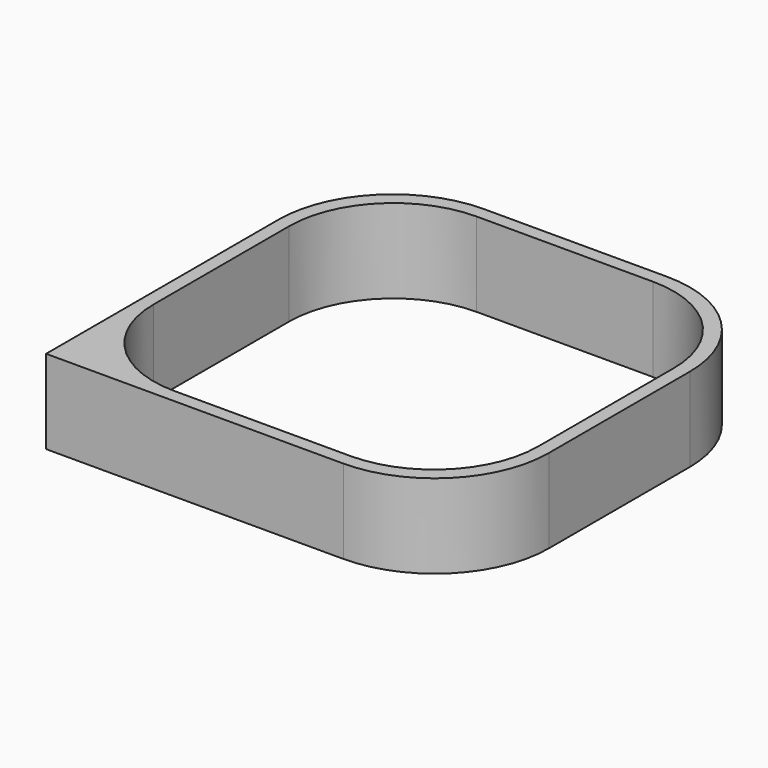
from build123d import *

# Parameters (mm, degrees)
BOX001_W     = 114.5
BOX001_H     = 112.5
BOX001_DEPTH = 32
BOX_W        = 122.5
BOX_H        = 120.5
BOX_DEPTH    = 25
FILLET_R     = 31
FILLET001_R  = 31
FILLET002_R  = 31
FILLET003_R  = 31
FILLET004_R  = 34
FILLET005_R  = 34
FILLET006_R  = 34


with BuildPart() as cubo001:
    # Box001 → Box001 (new body)
    with BuildSketch(Plane(origin=(4, 4, 0), x_dir=(1, 0, 0), z_dir=(0, 0, 1))):
        with Locations((57.25, 56.25)):
            Rectangle(BOX001_W, BOX001_H)
    extrude(amount=BOX001_DEPTH)


with BuildPart() as fillet006:
    # Box → Box (new body)
    with BuildSketch(Plane.XY):
        with Locations((61.25, 60.25)):
            Rectangle(BOX_W, BOX_H)
    extrude(amount=BOX_DEPTH)

    # Cut: cut Cubo001
    add(cubo001.part, mode=Mode.SUBTRACT)

    # Fillet
    fillet_edges = [fillet006.edges().sort_by_distance(p)[0] for p in [
        (4, 116.5, 12.5),
    ]]
    fillet(fillet_edges, radius=FILLET_R)

    # Fillet001
    fillet001_edges = [fillet006.edges().sort_by_distance(p)[0] for p in [
        (118.5, 116.5, 12.5),
    ]]
    fillet(fillet001_edges, radius=FILLET001_R)

    # Fillet002
    fillet002_edges = [fillet006.edges().sort_by_distance(p)[0] for p in [
        (4, 4, 12.5),
    ]]
    fillet(fillet002_edges, radius=FILLET002_R)

    # Fillet003
    fillet003_edges = [fillet006.edges().sort_by_distance(p)[0] for p in [
        (118.5, 4, 12.5),
    ]]
    fillet(fillet003_edges, radius=FILLET003_R)

    # Fillet004
    fillet004_edges = [fillet006.edges().sort_by_distance(p)[0] for p in [
        (0, 120.5, 12.5),
    ]]
    fillet(fillet004_edges, radius=FILLET004_R)

    # Fillet005
    fillet005_edges = [fillet006.edges().sort_by_distance(p)[0] for p in [
        (122.5, 120.5, 12.5),
    ]]
    fillet(fillet005_edges, radius=FILLET005_R)

    # Fillet006
    fillet006_edges = [fillet006.edges().sort_by_distance(p)[0] for p in [
        (122.5, 0, 12.5),
    ]]
    fillet(fillet006_edges, radius=FILLET006_R)


solid = fillet006.part
